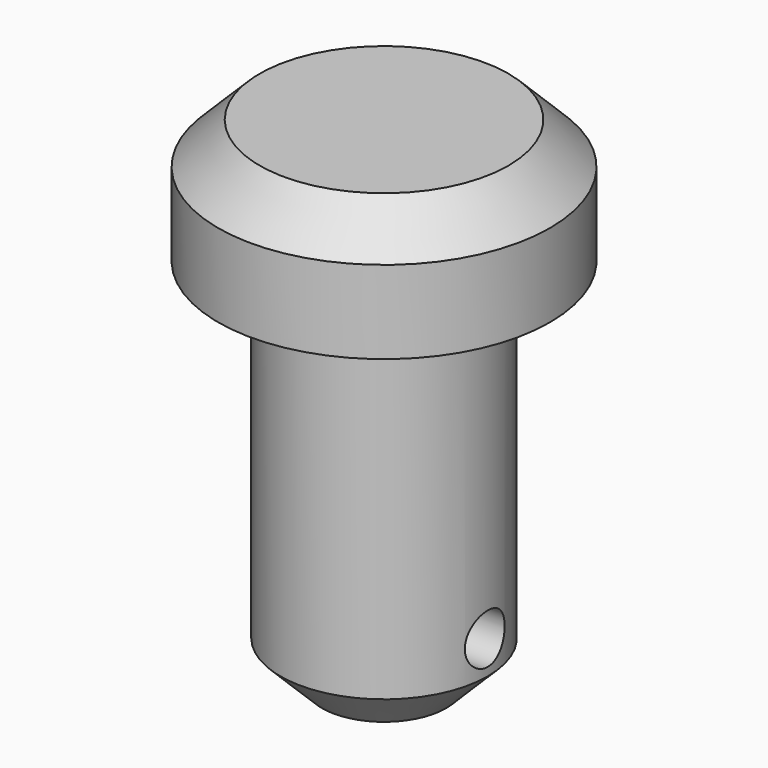
from build123d import *

# Parameters (mm, degrees)
F0_R     = 25
F1_DEPTH = 90
F2_R     = 40
F2_R_2   = 25
F3_DEPTH = 30
F4_SIZE2 = 10
F4_SIZE  = 10
F6_R     = 6
F7_DEPTH = 65.001
F8_SIZE2 = 10
F8_SIZE  = 10


with BuildPart() as f1:
    # F0 (on Top) → F1 (new body)
    with BuildSketch(Plane.XY):
        Circle(F0_R)
    extrude(amount=F1_DEPTH)

    # F2 (on face) → F3 (join)
    with BuildSketch(Plane.XY.offset(90)):
        Circle(F2_R)
        Circle(F2_R_2, mode=Mode.SUBTRACT)
        Circle(F2_R_2)
    extrude(amount=F3_DEPTH)

    # F4
    f4_edges = [f1.edges().sort_by_distance(p)[0] for p in [
        (-40, 0, 120),
    ]]
    chamfer(f4_edges, length=F4_SIZE, length2=F4_SIZE2)

    # F6 (on offset) → F7 (cut, through all)
    with BuildSketch(Plane.YZ.offset(25)):
        with Locations((0, 18)):
            Circle(F6_R)
    extrude(amount=-F7_DEPTH, mode=Mode.SUBTRACT)

    # F8
    f8_edges = [f1.edges().sort_by_distance(p)[0] for p in [
        (-25, 0, 0),
    ]]
    chamfer(f8_edges, length=F8_SIZE, length2=F8_SIZE2)


solid = f1.part
